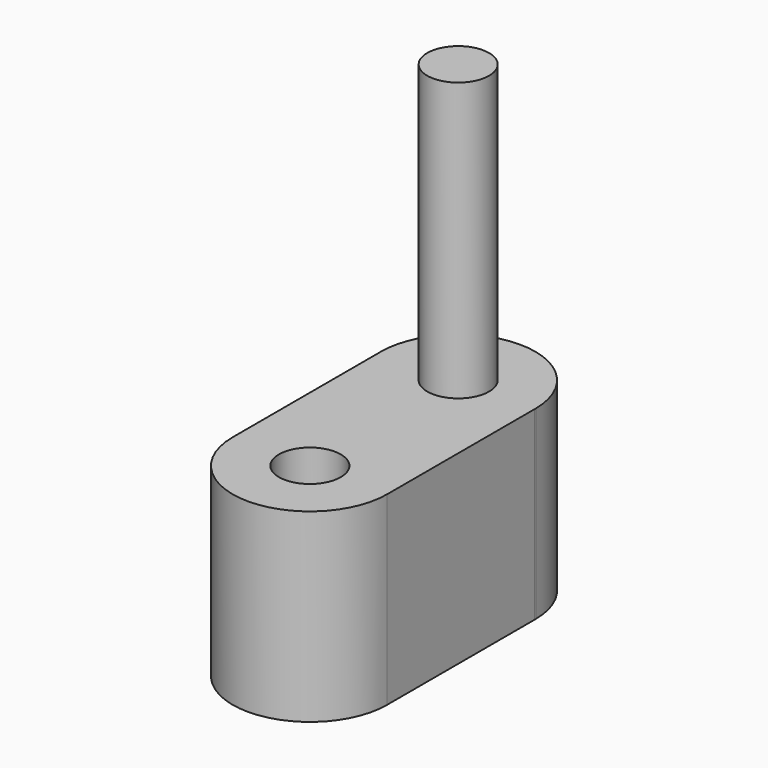
from build123d import *

# Parameters (mm, degrees)
F0_R     = 5
F1_DEPTH = 30
F2_DEPTH = 75


with BuildPart() as f1:
    # F0 (on Top) → F1 (new body)
    with BuildSketch(Plane.XY):
        with BuildLine():
            Line((12.499189, 29.857618), (12.499181, 30.143061))
            ThreePointArc((12.499181, 30.143061), (-0.071532, 42.499795), (-12.5, 30))
            ThreePointArc((-12.5, 30), (-0.071192, 17.500203), (12.499189, 29.857618))
        make_face()
        with Locations((0, 30)):
            Circle(F0_R, mode=Mode.SUBTRACT)
        with BuildLine():
            ThreePointArc((-12.5, 0), (0, -12.5), (12.5, 0))
            ThreePointArc((12.5, 0), (0, 12.5), (-12.5, 0))
        make_face()
        Circle(F0_R, mode=Mode.SUBTRACT)
        with BuildLine():
            Line((12.5, 0), (12.499189, 29.857618))
            ThreePointArc((12.499189, 29.857618), (-0.071192, 17.500203), (-12.5, 30))
            Line((-12.5, 30), (-12.5, 0))
            ThreePointArc((-12.5, 0), (0, 12.5), (12.5, 0))
        make_face()
    extrude(amount=F1_DEPTH)

    # F0 (on Top) → F2 (join)
    with BuildSketch(Plane.XY):
        with Locations((0, 30)):
            Circle(F0_R)
    extrude(amount=F2_DEPTH)


solid = f1.part
